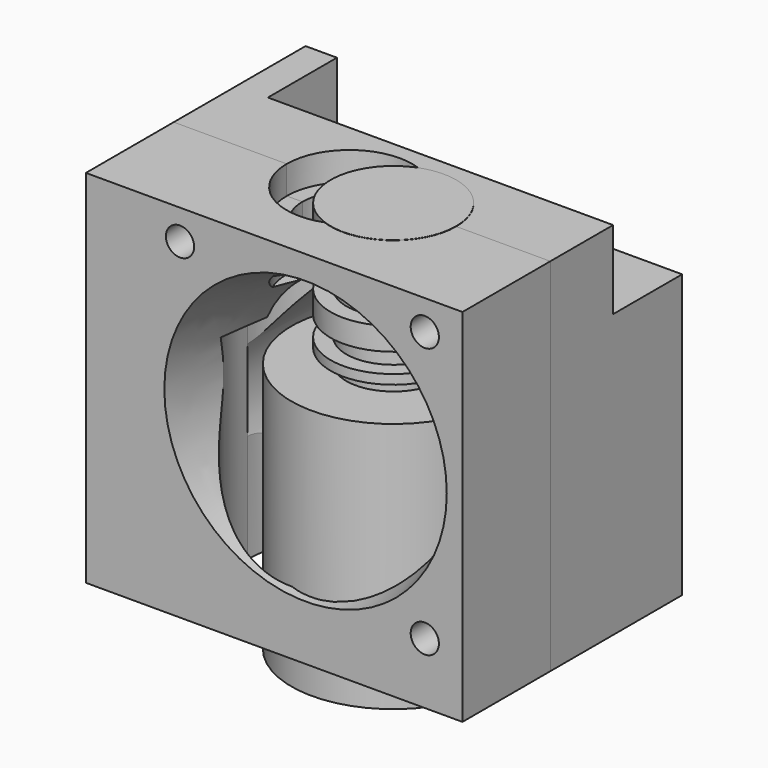
from build123d import *

# Parameters (mm, degrees)
CYLINDER009_R          = 6
CYLINDER009_DEPTH      = 18
CYLINDER008_R          = 8
CYLINDER008_DEPTH      = 3.63
CYLINDER007_R          = 8
CYLINDER007_DEPTH      = 2.9
CYLINDER006_R          = 8
CYLINDER006_DEPTH      = 1.2
CYLINDER010_R          = 13
CYLINDER010_DEPTH      = 32
CYLINDER013_R          = 1.8
CYLINDER013_DEPTH      = 20
CYLINDER013_ROLL_ANGLE = 90
CYLINDER012_R          = 1.8
CYLINDER012_DEPTH      = 21
CYLINDER012_ROLL_ANGLE = 90
CYLINDER011_R          = 13
CYLINDER011_DEPTH      = 32
CYLINDER001_R          = 6
CYLINDER001_DEPTH      = 18
CYLINDER002_R          = 8
CYLINDER002_DEPTH      = 3.63
CYLINDER003_R          = 8
CYLINDER003_DEPTH      = 3.7
CYLINDER004_R          = 8
CYLINDER004_DEPTH      = 1.2
CYLINDER_R             = 13
CYLINDER_DEPTH         = 32
CYLINDER005_R          = 14
CYLINDER005_DEPTH      = 25
CYLINDER005_ROLL_ANGLE = 90
BOX001_W               = 48
BOX001_H               = 12
BOX001_DEPTH           = 10
BOX_W                  = 48
BOX_H                  = 21
BOX_DEPTH              = 46
CYLINDER022_R          = 1.8
CYLINDER022_DEPTH      = 30
CYLINDER022_ROLL_ANGLE = 90
CYLINDER020_R          = 1.8
CYLINDER020_DEPTH      = 30
CYLINDER020_ROLL_ANGLE = 90
SKETCH001_R            = 18
SKETCH_R               = 13
LOFT_ROLL_ANGLE        = 90
CYLINDER021_R          = 1.8
CYLINDER021_DEPTH      = 30
CYLINDER021_ROLL_ANGLE = 90
CYLINDER024_R          = 6
CYLINDER024_DEPTH      = 18
CYLINDER025_R          = 8
CYLINDER025_DEPTH      = 3.63
CYLINDER026_R          = 8
CYLINDER026_DEPTH      = 3.7
CYLINDER027_R          = 8
CYLINDER027_DEPTH      = 1.2
CYLINDER023_R          = 13
CYLINDER023_DEPTH      = 32
BOX002_W               = 48
BOX002_H               = 14
BOX002_DEPTH           = 46


with BuildPart() as cylinderthroat001:
    # Cylinder009 → Cylinder009 (new body)
    with BuildSketch(Plane.XY.offset(32)):
        Circle(CYLINDER009_R)
    extrude(amount=CYLINDER009_DEPTH)


with BuildPart() as cylinder030:
    # Cylinder008 → Cylinder008 (new body)
    with BuildSketch(Plane.XY.offset(46.4)):
        Circle(CYLINDER008_R)
    extrude(amount=CYLINDER008_DEPTH)


with BuildPart() as cylinder029:
    # Cylinder007 → Cylinder007 (new body)
    with BuildSketch(Plane.XY.offset(37.5)):
        Circle(CYLINDER007_R)
    extrude(amount=CYLINDER007_DEPTH)


with BuildPart() as cylinder028:
    # Cylinder006 → Cylinder006 (new body)
    with BuildSketch(Plane.XY.offset(33.8)):
        Circle(CYLINDER006_R)
    extrude(amount=CYLINDER006_DEPTH)


with BuildPart() as fusion001:
    # Cylinder010 → Cylinder010 (new body)
    with BuildSketch(Plane.XY):
        Circle(CYLINDER010_R)
    extrude(amount=CYLINDER010_DEPTH)

    # Fusion001: union CylinderThroat001, Cylinder030, Cylinder029, Cylinder028
    add(cylinderthroat001.part)
    add(cylinder030.part)
    add(cylinder029.part)
    add(cylinder028.part)


with BuildPart() as fusion001_1:
    # Fusion001 placement: moved
    add(fusion001.part.moved(Location((0, 0, -8))))


with BuildPart() as screwhole3mm001:
    # Cylinder013 → Cylinder013 (new body)
    with BuildSketch(Plane.XY):
        Circle(CYLINDER013_R)
    extrude(amount=CYLINDER013_DEPTH)


with BuildPart() as screwhole3mm001_1:
    # Cylinder013 roll: moved
    add(screwhole3mm001.part.rotate(Axis((0, 0, 0), (1, 0, 0)), CYLINDER013_ROLL_ANGLE))


with BuildPart() as screwhole3mm001_2:
    # Cylinder013 placement: moved
    add(screwhole3mm001_1.part.moved(Location((15.2, 15, 38.2))))


with BuildPart() as screwhole3mm:
    # Cylinder012 → Cylinder012 (new body)
    with BuildSketch(Plane.XY):
        Circle(CYLINDER012_R)
    extrude(amount=CYLINDER012_DEPTH)


with BuildPart() as screwhole3mm_1:
    # Cylinder012 roll: moved
    add(screwhole3mm.part.rotate(Axis((0, 0, 0), (1, 0, 0)), CYLINDER012_ROLL_ANGLE))


with BuildPart() as screwhole3mm_2:
    # Cylinder012 placement: moved
    add(screwhole3mm_1.part.moved(Location((-16.1, 15, 38.2))))


with BuildPart() as cylinder031:
    # Cylinder011 → Cylinder011 (new body)
    with BuildSketch(Plane(origin=(-5.6, 0, -2.4), x_dir=(1, 0, 0), z_dir=(0, 0, 1))):
        Circle(CYLINDER011_R)
    extrude(amount=CYLINDER011_DEPTH)


with BuildPart() as cylinderthroat:
    # Cylinder001 → Cylinder001 (new body)
    with BuildSketch(Plane.XY.offset(32)):
        Circle(CYLINDER001_R)
    extrude(amount=CYLINDER001_DEPTH)


with BuildPart() as cylinder001:
    # Cylinder002 → Cylinder002 (new body)
    with BuildSketch(Plane.XY.offset(46.4)):
        Circle(CYLINDER002_R)
    extrude(amount=CYLINDER002_DEPTH)


with BuildPart() as cylinder002:
    # Cylinder003 → Cylinder003 (new body)
    with BuildSketch(Plane.XY.offset(37.6)):
        Circle(CYLINDER003_R)
    extrude(amount=CYLINDER003_DEPTH)


with BuildPart() as cylinder003:
    # Cylinder004 → Cylinder004 (new body)
    with BuildSketch(Plane.XY.offset(33.8)):
        Circle(CYLINDER004_R)
    extrude(amount=CYLINDER004_DEPTH)


with BuildPart() as fusion:
    # Cylinder → Cylinder (new body)
    with BuildSketch(Plane.XY):
        Circle(CYLINDER_R)
    extrude(amount=CYLINDER_DEPTH)

    # Fusion: union CylinderThroat, Cylinder001, Cylinder002, Cylinder003
    add(cylinderthroat.part)
    add(cylinder001.part)
    add(cylinder002.part)
    add(cylinder003.part)


with BuildPart() as fusion_1:
    # Fusion placement: moved
    add(fusion.part.moved(Location((-5.6, 0, -8))))


with BuildPart() as cylinder004:
    # Cylinder005 → Cylinder005 (new body)
    with BuildSketch(Plane.XY):
        Circle(CYLINDER005_R)
    extrude(amount=CYLINDER005_DEPTH)


with BuildPart() as cylinder004_1:
    # Cylinder005 roll: moved
    add(cylinder004.part.rotate(Axis((0, 0, 0), (1, 0, 0)), CYLINDER005_ROLL_ANGLE))


with BuildPart() as cylinder004_2:
    # Cylinder005 placement: moved
    add(cylinder004_1.part.moved(Location((-5.6, 25, 15))))


with BuildPart() as cube:
    # Box001 → Box001 (new body)
    with BuildSketch(Plane(origin=(-24, 10, 32), x_dir=(1, 0, 0), z_dir=(0, 0, 1))):
        with Locations((24, 6)):
            Rectangle(BOX001_W, BOX001_H)
    extrude(amount=BOX001_DEPTH)


with BuildPart() as cut005:
    # Box → Box (new body)
    with BuildSketch(Plane(origin=(-28, 0, -4), x_dir=(1, 0, 0), z_dir=(0, 0, 1))):
        with Locations((24, 10.5)):
            Rectangle(BOX_W, BOX_H)
    extrude(amount=BOX_DEPTH)

    # Cut: cut Cube
    add(cube.part, mode=Mode.SUBTRACT)

    # Cut001: cut Cylinder004
    add(cylinder004_2.part, mode=Mode.SUBTRACT)

    # Cut002: cut Fusion
    add(fusion_1.part, mode=Mode.SUBTRACT)

    # Cut003: cut Cylinder031
    add(cylinder031.part, mode=Mode.SUBTRACT)

    # Cut004: cut ScrewHole3mm
    add(screwhole3mm_2.part, mode=Mode.SUBTRACT)

    # Cut005: cut ScrewHole3mm001
    add(screwhole3mm001_2.part, mode=Mode.SUBTRACT)


with BuildPart() as fan_mount002:
    # Cylinder022 → Cylinder022 (new body)
    with BuildSketch(Plane.XY):
        Circle(CYLINDER022_R)
    extrude(amount=CYLINDER022_DEPTH)


with BuildPart() as fan_mount002_1:
    # Cylinder022 roll: moved
    add(fan_mount002.part.rotate(Axis((0, 0, 0), (1, 0, 0)), CYLINDER022_ROLL_ANGLE))


with BuildPart() as fan_mount002_2:
    # Cylinder022 placement: moved
    add(fan_mount002_1.part.moved(Location((15.2, 5, -17.2))))


with BuildPart() as fan_mount:
    # Cylinder020 → Cylinder020 (new body)
    with BuildSketch(Plane.XY):
        Circle(CYLINDER020_R)
    extrude(amount=CYLINDER020_DEPTH)


with BuildPart() as fan_mount_1:
    # Cylinder020 roll: moved
    add(fan_mount.part.rotate(Axis((0, 0, 0), (1, 0, 0)), CYLINDER020_ROLL_ANGLE))


with BuildPart() as fan_mount_2:
    # Cylinder020 placement: moved
    add(fan_mount_1.part.moved(Location((15.2, 4, 17.2))))


with BuildPart() as loft_body:
    # Sketch001 → Loft section 0
    with BuildSketch(Plane.XY.offset(20)):
        Circle(SKETCH001_R)
    # Sketch → Loft section 1
    with BuildSketch(Plane(origin=(-4, -4, 0), x_dir=(1, 0, 0), z_dir=(0, 0, 1))):
        Circle(SKETCH_R)
    loft()


with BuildPart() as loft_body_1:
    # Loft roll: moved
    add(loft_body.part.rotate(Axis((0, 0, 0), (1, 0, 0)), LOFT_ROLL_ANGLE))


with BuildPart() as loft_body_2:
    # Loft placement: moved
    add(loft_body_1.part)


with BuildPart() as fusion003:
    # Cylinder021 → Cylinder021 (new body)
    with BuildSketch(Plane.XY):
        Circle(CYLINDER021_R)
    extrude(amount=CYLINDER021_DEPTH)


with BuildPart() as fusion003_1:
    # Cylinder021 roll: moved
    add(fusion003.part.rotate(Axis((0, 0, 0), (1, 0, 0)), CYLINDER021_ROLL_ANGLE))


with BuildPart() as fusion003_2:
    # Cylinder021 placement: moved
    add(fusion003_1.part.moved(Location((-16, 5, 17.2))))

    # Fusion003: union Fan mount002, Fan mount, Loft body
    add(fan_mount002_2.part)
    add(fan_mount_2.part)
    add(loft_body_2.part)


with BuildPart() as fusion003_3:
    # Fusion003 placement: moved
    add(fusion003_2.part.moved(Location((0, 6, 21))))


with BuildPart() as cylinderthroat003:
    # Cylinder024 → Cylinder024 (new body)
    with BuildSketch(Plane.XY.offset(32)):
        Circle(CYLINDER024_R)
    extrude(amount=CYLINDER024_DEPTH)


with BuildPart() as cylinder036:
    # Cylinder025 → Cylinder025 (new body)
    with BuildSketch(Plane.XY.offset(46.4)):
        Circle(CYLINDER025_R)
    extrude(amount=CYLINDER025_DEPTH)


with BuildPart() as cylinder037:
    # Cylinder026 → Cylinder026 (new body)
    with BuildSketch(Plane.XY.offset(37.6)):
        Circle(CYLINDER026_R)
    extrude(amount=CYLINDER026_DEPTH)


with BuildPart() as cylinder038:
    # Cylinder027 → Cylinder027 (new body)
    with BuildSketch(Plane.XY.offset(33.8)):
        Circle(CYLINDER027_R)
    extrude(amount=CYLINDER027_DEPTH)


with BuildPart() as fusion004:
    # Cylinder023 → Cylinder023 (new body)
    with BuildSketch(Plane.XY):
        Circle(CYLINDER023_R)
    extrude(amount=CYLINDER023_DEPTH)

    # Fusion004: union CylinderThroat003, Cylinder036, Cylinder037, Cylinder038
    add(cylinderthroat003.part)
    add(cylinder036.part)
    add(cylinder037.part)
    add(cylinder038.part)


with BuildPart() as fusion004_1:
    # Fusion004 placement: moved
    add(fusion004.part.moved(Location((-5.6, 0, -8))))


with BuildPart() as cut007:
    # Box002 → Box002 (new body)
    with BuildSketch(Plane(origin=(-28, -14, -4), x_dir=(1, 0, 0), z_dir=(0, 0, 1))):
        with Locations((24, 7)):
            Rectangle(BOX002_W, BOX002_H)
    extrude(amount=BOX002_DEPTH)

    # Cut006: cut Fusion004
    add(fusion004_1.part, mode=Mode.SUBTRACT)

    # Cut007: cut Fusion003
    add(fusion003_3.part, mode=Mode.SUBTRACT)


solid = Compound([fusion001_1.part, cut005.part, cut007.part])
